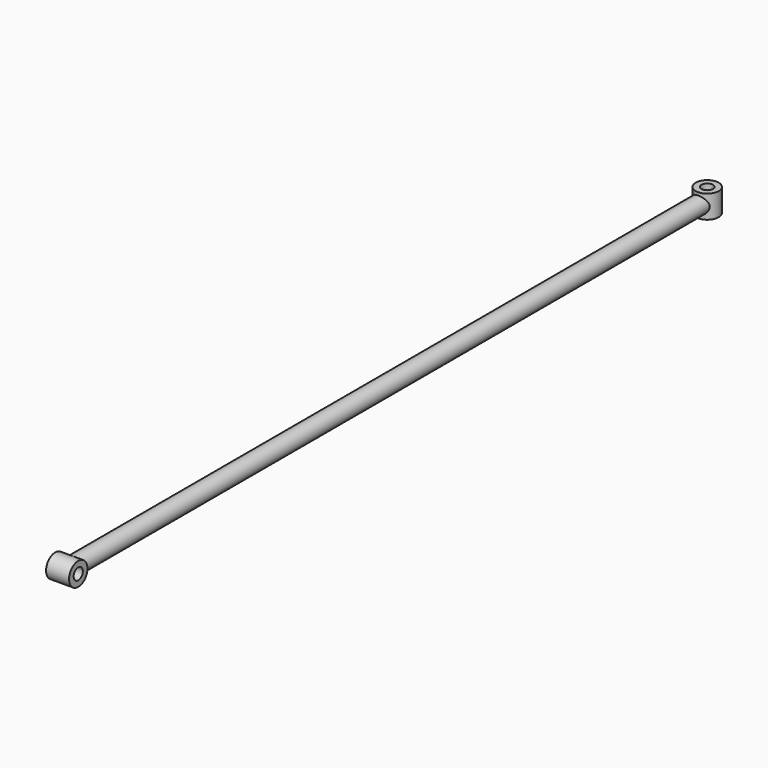
from build123d import *

# Parameters (mm, degrees)
F1_R     = 9.525
F2_DEPTH = 876.3
F0_R     = 12.7
F0_R_2   = 6.35
F3_DEPTH = 12.7
F4_DEPTH = 6.35
F5_R     = 12.7
F5_R_2   = 6.35
F6_DEPTH = 12.7


with BuildPart() as f2:
    # F1 (on Front) → F2 (new body)
    with BuildSketch(Plane.XZ):
        Circle(F1_R)
    extrude(amount=F2_DEPTH)

    # F0 (on Top) → F3 (join, symmetric)
    with BuildSketch(Plane.XY):
        Circle(F0_R)
        Circle(F0_R_2, mode=Mode.SUBTRACT)
    extrude(amount=F3_DEPTH, both=True)

    # F4 (cut): a face of the model
    f4_faces = [f2.faces().sort_by_distance(p)[0] for p in [
        (0, 0, 0),
    ]]
    extrude(f4_faces, amount=-F4_DEPTH, mode=Mode.SUBTRACT)

    # F5 (on Right) → F6 (join, symmetric)
    with BuildSketch(Plane.YZ):
        with Locations((-884.3026161194, 0)):
            Circle(F5_R)
        with Locations((-884.3026161194, 0)):
            Circle(F5_R_2, mode=Mode.SUBTRACT)
    extrude(amount=F6_DEPTH, both=True)


solid = f2.part
